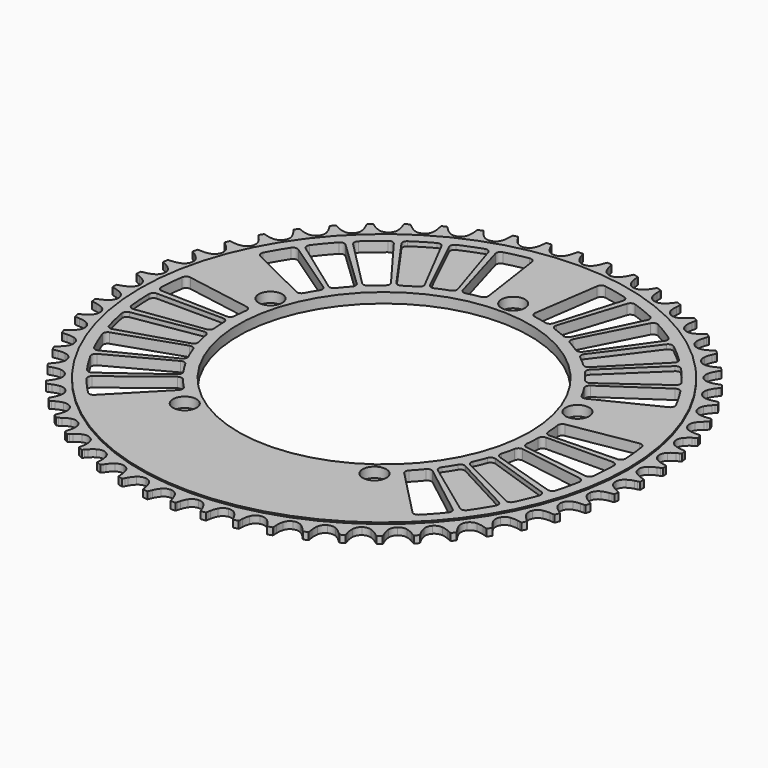
from build123d import *

# Parameters (mm, degrees)
F0_R     = 108.779476
F0_R_2   = 5.25
F0_R_3   = 64.999997
F1_DEPTH = 2.25
F2_DEPTH = 1.58
F4_DEPTH = 4.5
F5_DEPTH = 2
F6_R     = 2


with BuildPart() as f1:
    # F0 (on Top) → F1 (new body, symmetric)
    with BuildSketch(Plane.XY):
        Circle(F0_R)
        with Locations((-42.320538, -58.249224)):
            Circle(F0_R_2, mode=Mode.SUBTRACT)
        with Locations((42.320538, -58.249224)):
            Circle(F0_R_2, mode=Mode.SUBTRACT)
        with Locations((-68.476069, 22.249224)):
            Circle(F0_R_2, mode=Mode.SUBTRACT)
        Circle(F0_R_3, mode=Mode.SUBTRACT)
        with Locations((68.476069, 22.249224)):
            Circle(F0_R_2, mode=Mode.SUBTRACT)
        with Locations((0, 72)):
            Circle(F0_R_2, mode=Mode.SUBTRACT)
    extrude(amount=F1_DEPTH, both=True)

    # F0 (on Top) → F2 (join, symmetric)
    with BuildSketch(Plane.XY):
        with BuildLine():
            ThreePointArc((0, 111.279476), (-1.821214, 111.716269), (-3.246186, 112.931614))
            ThreePointArc((-3.246186, 112.931614), (-4.065486, 114.236452), (-4.682881, 115.648074))
            Line((-4.682881, 115.648074), (-5.068905, 116.766943))
            ThreePointArc((-5.068905, 116.766943), (-5.237208, 117.202485), (-5.436846, 117.624584))
            ThreePointArc((-5.436846, 117.624584), (-6.486593, 117.571367), (-7.535823, 117.508781))
            ThreePointArc((-7.535823, 117.508781), (-7.687816, 117.067281), (-7.807183, 116.615868))
            Line((-7.807183, 116.615868), (-8.06778, 115.461324))
            ThreePointArc((-8.06778, 115.461324), (-8.526138, 113.990351), (-9.196922, 112.603302))
            ThreePointArc((-9.196922, 112.603302), (-10.479548, 111.238575), (-12.241657, 110.604085))
            ThreePointArc((-12.241657, 110.604085), (-14.099868, 110.837878), (-15.64989, 111.889088))
            ThreePointArc((-15.64989, 111.889088), (-16.60776, 113.095877), (-17.376698, 114.431013))
            Line((-17.376698, 114.431013), (-17.883464, 115.500625))
            ThreePointArc((-17.883464, 115.500625), (-18.098658, 115.91501), (-18.343519, 116.312585))
            ThreePointArc((-18.343519, 116.312585), (-19.381041, 116.14421), (-20.417018, 115.966579))
            ThreePointArc((-20.417018, 115.966579), (-20.519519, 115.511039), (-20.588503, 115.049234))
            Line((-20.588503, 115.049234), (-20.720509, 113.87303))
            ThreePointArc((-20.720509, 113.87303), (-21.014266, 112.360561), (-21.528392, 110.90814))
            ThreePointArc((-21.528392, 110.90814), (-22.653102, 109.410596), (-24.334717, 108.586111))
            ThreePointArc((-24.334717, 108.586111), (-26.20737, 108.614066), (-27.863625, 109.488381))
            ThreePointArc((-27.863625, 109.488381), (-28.948438, 110.582472), (-29.859585, 111.824915))
            Line((-29.859585, 111.824915), (-30.480942, 112.832287))
            ThreePointArc((-30.480942, 112.832287), (-30.740416, 113.220483), (-31.027527, 113.588709))
            ThreePointArc((-31.027527, 113.588709), (-32.040229, 113.307219), (-33.050378, 113.016701))
            ThreePointArc((-33.050378, 113.016701), (-33.102143, 112.55265), (-33.119907, 112.086058))
            Line((-33.119907, 112.086058), (-33.121719, 110.902472))
            ThreePointArc((-33.121719, 110.902472), (-33.247309, 109.366867), (-33.598536, 107.866702))
            ThreePointArc((-33.598536, 107.866702), (-34.551678, 106.254521), (-36.132387, 105.250047))
            ThreePointArc((-36.132387, 105.250047), (-37.996749, 105.071826), (-39.739134, 105.758632))
            ThreePointArc((-39.739134, 105.758632), (-40.937722, 106.726745), (-41.980018, 107.861414))
            Line((-41.980018, 107.861414), (-42.708422, 108.794317))
            ThreePointArc((-42.708422, 108.794317), (-43.009026, 109.151613), (-43.334903, 109.486019))
            ThreePointArc((-43.334903, 109.486019), (-44.310492, 109.094832), (-45.28255, 108.694953))
            ThreePointArc((-45.28255, 108.694953), (-45.282953, 108.228024), (-45.249279, 107.76231))
            Line((-45.249279, 107.76231), (-45.120876, 106.585707))
            ThreePointArc((-45.120876, 106.585707), (-45.076774, 105.045607), (-45.26084, 103.515909))
            ThreePointArc((-45.26084, 103.515909), (-46.030843, 101.808659), (-47.491458, 100.636391))
            ThreePointArc((-47.491458, 100.636391), (-49.324899, 100.254157), (-51.132263, 100.745118))
            ThreePointArc((-51.132263, 100.745118), (-52.430077, 101.5755), (-53.59087, 102.588621))
            Line((-53.59087, 102.588621), (-54.41748, 103.435731))
            ThreePointArc((-54.41748, 103.435731), (-54.755565, 103.75779), (-55.116251, 104.054317))
            ThreePointArc((-55.116251, 104.054317), (-56.042886, 103.558182), (-56.965054, 103.053795))
            ThreePointArc((-56.965054, 103.053795), (-56.914088, 102.589656), (-56.829387, 102.130473))
            Line((-56.829387, 102.130473), (-56.572327, 100.975137))
            ThreePointArc((-56.572327, 100.975137), (-56.359069, 99.449235), (-56.373738, 97.908573))
            ThreePointArc((-56.373738, 97.908573), (-56.951257, 96.126978), (-58.274048, 94.801146))
            ThreePointArc((-58.274048, 94.801146), (-60.054312, 94.219537), (-61.904716, 94.508694))
            ThreePointArc((-61.904716, 94.508694), (-63.286002, 95.191266), (-64.551201, 96.070541))
            Line((-64.551201, 96.070541), (-65.465984, 96.821576))
            ThreePointArc((-65.465984, 96.821576), (-65.837446, 97.104488), (-66.228563, 97.359537))
            ThreePointArc((-66.228563, 97.359537), (-67.094995, 96.764476), (-67.95608, 96.161704))
            ThreePointArc((-67.95608, 96.161704), (-67.854364, 95.705988), (-67.719662, 95.25891))
            Line((-67.719662, 95.25891), (-67.337066, 94.138865))
            ThreePointArc((-67.337066, 94.138865), (-66.957241, 92.645685), (-66.802336, 91.11276))
            ThreePointArc((-66.802336, 91.11276), (-67.180359, 89.278446), (-68.349269, 87.815143))
            ThreePointArc((-68.349269, 87.815143), (-70.054746, 87.041221), (-71.92573, 87.125062))
            ThreePointArc((-71.92573, 87.125062), (-73.373721, 87.651539), (-74.727969, 88.386295))
            Line((-74.727969, 88.386295), (-75.719819, 89.032139))
            ThreePointArc((-75.719819, 89.032139), (-76.120149, 89.272469), (-76.53695, 89.482945))
            ThreePointArc((-76.53695, 89.482945), (-77.332661, 88.79618), (-78.12221, 88.10234))
            ThreePointArc((-78.12221, 88.10234), (-77.970979, 87.66058), (-77.787913, 87.231034))
            Line((-77.787913, 87.231034), (-77.284425, 86.159875))
            ThreePointArc((-77.284425, 86.159875), (-76.742643, 84.717541), (-76.420044, 83.210961))
            ThreePointArc((-76.420044, 83.210961), (-76.593983, 81.346195), (-77.594823, 79.763183))
            ThreePointArc((-77.594823, 79.763183), (-79.204811, 78.806341), (-81.073662, 78.683851))
            ThreePointArc((-81.073662, 78.683851), (-82.570782, 79.047841), (-83.997639, 79.629159))
            Line((-83.997639, 79.629159), (-85.054518, 80.161971))
            ThreePointArc((-85.054518, 80.161971), (-85.478857, 80.356804), (-85.916282, 80.52015))
            ThreePointArc((-85.916282, 80.52015), (-86.631614, 79.750019), (-87.340043, 78.973534))
            ThreePointArc((-87.340043, 78.973534), (-87.141133, 78.551091), (-86.911924, 78.144291))
            Line((-86.911924, 78.144291), (-86.293655, 77.135021))
            ThreePointArc((-86.293655, 77.135021), (-85.596493, 75.761042), (-85.110115, 74.299094))
            ThreePointArc((-85.110115, 74.299094), (-85.077859, 72.426511), (-85.898481, 70.743006))
            ThreePointArc((-85.898481, 70.743006), (-87.393437, 69.61486), (-89.237471, 69.287524))
            ThreePointArc((-89.237471, 69.287524), (-90.765545, 69.484609), (-92.247693, 69.905433))
            Line((-92.247693, 69.905433), (-93.356771, 70.318746))
            ThreePointArc((-93.356771, 70.318746), (-93.799967, 70.465715), (-94.252707, 70.57995))
            ThreePointArc((-94.252707, 70.57995), (-94.878977, 69.735801), (-95.497686, 68.886095))
            ThreePointArc((-95.497686, 68.886095), (-95.253511, 68.488098), (-94.980942, 68.108982))
            Line((-94.980942, 68.108982), (-94.255398, 67.173852))
            ThreePointArc((-94.255398, 67.173852), (-93.411318, 65.884905), (-92.767066, 64.485336))
            ThreePointArc((-92.767066, 64.485336), (-92.529006, 62.627667), (-93.159447, 60.864105))
            ThreePointArc((-93.159447, 60.864105), (-94.521225, 59.578348), (-96.318057, 59.05014))
            ThreePointArc((-96.318057, 59.05014), (-97.858538, 59.077928), (-99.377984, 59.33315))
            Line((-99.377984, 59.33315), (-100.525798, 59.621947))
            ThreePointArc((-100.525798, 59.621947), (-100.982473, 59.719269), (-101.445032, 59.783005))
            ThreePointArc((-101.445032, 59.783005), (-101.974637, 58.875084), (-102.496117, 57.962472))
            ThreePointArc((-102.496117, 57.962472), (-102.20964, 57.593752), (-101.89702, 57.246922))
            Line((-101.89702, 57.246922), (-101.073007, 56.397284))
            ThreePointArc((-101.073007, 56.397284), (-100.092256, 55.209016), (-99.29795, 53.888814))
            ThreePointArc((-99.29795, 53.888814), (-98.856976, 52.068608), (-99.289585, 50.246396))
            ThreePointArc((-99.289585, 50.246396), (-100.501653, 48.818636), (-102.229472, 48.095967))
            ThreePointArc((-102.229472, 48.095967), (-103.763661, 47.954122), (-105.301961, 48.040643))
            Line((-105.301961, 48.040643), (-106.474579, 48.201418))
            ThreePointArc((-106.474579, 48.201418), (-106.939188, 48.247911), (-107.405951, 48.260375))
            ThreePointArc((-107.405951, 48.260375), (-107.832463, 47.299704), (-108.250383, 46.335264))
            ThreePointArc((-108.250383, 46.335264), (-107.925083, 46.000297), (-107.576206, 45.689962))
            Line((-107.576206, 45.689962), (-106.663728, 44.936129))
            ThreePointArc((-106.663728, 44.936129), (-105.558209, 43.862963), (-104.623491, 42.638155))
            ThreePointArc((-104.623491, 42.638155), (-103.984956, 40.877507), (-104.214481, 39.018764))
            ThreePointArc((-104.214481, 39.018764), (-105.262128, 37.466332), (-106.89996, 36.557975))
            ThreePointArc((-106.89996, 36.557975), (-108.409233, 36.248217), (-109.947715, 36.164987))
            Line((-109.947715, 36.164987), (-111.130903, 36.195789))
            ThreePointArc((-111.130903, 36.195789), (-111.597807, 36.190889), (-112.063108, 36.151929))
            ThreePointArc((-112.063108, 36.151929), (-112.38135, 35.150169), (-112.690637, 34.145608))
            ThreePointArc((-112.690637, 34.145608), (-112.330462, 33.84846), (-111.949563, 33.578388))
            Line((-111.949563, 33.578388), (-110.959695, 32.92951))
            ThreePointArc((-110.959695, 32.92951), (-109.742829, 31.984474), (-108.679045, 30.869926))
            ThreePointArc((-108.679045, 30.869926), (-107.850699, 29.190208), (-107.874354, 27.317496))
            ThreePointArc((-107.874354, 27.317496), (-108.744863, 25.659237), (-110.272828, 24.576219))
            ThreePointArc((-110.272828, 24.576219), (-111.738865, 24.102308), (-113.258853, 23.850338))
            Line((-113.258853, 23.850338), (-114.438248, 23.750792))
            ThreePointArc((-114.438248, 23.750792), (-114.901779, 23.694559), (-115.35997, 23.604649))
            ThreePointArc((-115.35997, 23.604649), (-115.566079, 22.573959), (-115.762978, 21.541471))
            ThreePointArc((-115.762978, 21.541471), (-115.372301, 21.285748), (-114.964003, 21.059217))
            Line((-114.964003, 21.059217), (-113.908761, 20.523172))
            ThreePointArc((-113.908761, 20.523172), (-112.595319, 19.717737), (-111.415382, 18.726978))
            ThreePointArc((-111.415382, 18.726978), (-110.407281, 17.14858), (-110.224779, 15.284632))
            ThreePointArc((-110.224779, 15.284632), (-110.907582, 13.540674), (-112.307133, 12.29614))
            ThreePointArc((-112.307133, 12.29614), (-113.712137, 11.66383), (-115.195182, 11.246177))
            Line((-115.195182, 11.246177), (-116.356468, 11.017493))
            ThreePointArc((-116.356468, 11.017493), (-116.810999, 10.910608), (-117.256519, 10.770839))
            ThreePointArc((-117.256519, 10.770839), (-117.347992, 9.723732), (-117.430114, 8.67585))
            ThreePointArc((-117.430114, 8.67585), (-117.013676, 8.464657), (-116.582937, 8.284417))
            Line((-116.582937, 8.284417), (-115.47513, 7.86771))
            ThreePointArc((-115.47513, 7.86771), (-114.081055, 7.211653), (-112.799288, 6.35671))
            ThreePointArc((-112.799288, 6.35671), (-111.623669, 4.898791), (-111.237224, 3.066233))
            ThreePointArc((-111.237224, 3.066233), (-111.724034, 1.257746), (-112.978181, -0.133197))
            ThreePointArc((-112.978181, -0.133197), (-114.305099, -0.916232), (-115.733197, -1.494496))
            Line((-115.733197, -1.494496), (-116.862277, -1.849544))
            ThreePointArc((-116.862277, -1.849544), (-117.302292, -2.005782), (-117.729732, -2.193713))
            ThreePointArc((-117.729732, -2.193713), (-117.705459, -3.244528), (-117.671808, -4.295085))
            ThreePointArc((-117.671808, -4.295085), (-117.234664, -4.459185), (-116.786711, -4.590946))
            Line((-116.786711, -4.590946), (-115.639787, -4.883256))
            ThreePointArc((-115.639787, -4.883256), (-114.182002, -5.381971), (-112.813963, -6.09072))
            ThreePointArc((-112.813963, -6.09072), (-111.485096, -7.410463), (-110.899401, -9.189386))
            ThreePointArc((-110.899401, -9.189386), (-111.184307, -11.04045), (-112.277827, -12.560918))
            ThreePointArc((-112.277827, -12.560918), (-113.510551, -13.485172), (-114.866368, -14.217029))
            Line((-114.866368, -14.217029), (-115.949537, -14.69413))
            ThreePointArc((-115.949537, -14.69413), (-116.369694, -14.897824), (-116.773866, -15.131637))
            ThreePointArc((-116.773866, -15.131637), (-116.634142, -16.173405), (-116.485125, -17.213883))
            ThreePointArc((-116.485125, -17.213883), (-116.032583, -17.328897), (-115.572853, -17.41058))
            Line((-115.572853, -17.41058), (-114.400733, -17.574945))
            ThreePointArc((-114.400733, -17.574945), (-112.896933, -17.910265), (-111.459229, -18.464217))
            ThreePointArc((-111.459229, -18.464217), (-109.993245, -19.629763), (-109.215408, -21.333459))
            ThreePointArc((-109.215408, -21.333459), (-109.294953, -23.20463), (-110.214573, -24.836165))
            ThreePointArc((-110.214573, -24.836165), (-111.338139, -25.89042), (-112.605217, -26.766986))
            Line((-112.605217, -26.766986), (-113.629327, -27.360349))
            ThreePointArc((-113.629327, -27.360349), (-114.024526, -27.609028), (-114.400523, -27.885884))
            ThreePointArc((-114.400523, -27.885884), (-114.147045, -28.905957), (-113.884471, -29.923728))
            ThreePointArc((-113.884471, -29.923728), (-113.422022, -29.988261), (-112.956097, -30.018874))
            Line((-112.956097, -30.018874), (-111.77301, -30.053298))
            ThreePointArc((-111.77301, -30.053298), (-110.241449, -30.221153), (-108.751532, -30.613583))
            ThreePointArc((-108.751532, -30.613583), (-107.166225, -31.610785), (-106.205689, -33.218572))
            ThreePointArc((-106.205689, -33.218572), (-106.078907, -35.087137), (-106.813462, -36.809936))
            ThreePointArc((-106.813462, -36.809936), (-107.814233, -37.981393), (-108.977191, -38.992028))
            Line((-108.977191, -38.992028), (-109.929811, -39.69445))
            ThreePointArc((-109.929811, -39.69445), (-110.295254, -39.985095), (-110.638513, -40.301633))
            ThreePointArc((-110.638513, -40.301633), (-110.274356, -41.287631), (-109.901413, -42.270339))
            ThreePointArc((-109.901413, -42.270339), (-109.434672, -42.283607), (-108.968207, -42.262779))
            Line((-108.968207, -42.262779), (-107.788514, -42.166845))
            ThreePointArc((-107.788514, -42.166845), (-106.247783, -42.165197), (-104.723738, -42.391342))
            ThreePointArc((-104.723738, -42.391342), (-103.038353, -43.208095), (-101.906776, -44.700457))
            ThreePointArc((-101.906776, -44.700457), (-101.575206, -46.543733), (-102.115781, -48.336883))
            ThreePointArc((-102.115781, -48.336883), (-102.981608, -49.611324), (-104.02633, -50.74376))
            Line((-104.02633, -50.74376), (-104.895896, -51.546715))
            ThreePointArc((-104.895896, -51.546715), (-105.227147, -51.875797), (-105.533501, -52.228176))
            ThreePointArc((-105.533501, -52.228176), (-105.063087, -53.168129), (-104.584301, -54.103846))
            ThreePointArc((-104.584301, -54.103846), (-104.118933, -54.065688), (-103.657591, -53.993671))
            Line((-103.657591, -53.993671), (-102.495611, -53.768543))
            ThreePointArc((-102.495611, -53.768543), (-100.964412, -53.597412), (-99.424739, -53.654527))
            ThreePointArc((-99.424739, -53.654527), (-97.659734, -54.280917), (-96.370854, -55.639738))
            ThreePointArc((-96.370854, -55.639738), (-95.83852, -57.435352), (-96.178553, -59.277087))
            ThreePointArc((-96.178553, -59.277087), (-96.898926, -60.63904), (-97.81273, -61.879531))
            Line((-97.81273, -61.879531), (-98.588686, -62.773272))
            ThreePointArc((-98.588686, -62.773272), (-98.881726, -63.136797), (-99.147455, -63.520739))
            ThreePointArc((-99.147455, -63.520739), (-98.576494, -64.403238), (-97.997677, -65.280605))
            ThreePointArc((-97.997677, -65.280605), (-97.539332, -65.191484), (-97.088712, -65.069153))
            Line((-97.088712, -65.069153), (-95.95855, -64.717564))
            ThreePointArc((-95.95855, -64.717564), (-94.455471, -64.379027), (-92.91886, -64.266419))
            ThreePointArc((-92.91886, -64.266419), (-91.095658, -64.694842), (-89.665119, -65.903629))
            ThreePointArc((-89.665119, -65.903629), (-88.938484, -67.629784), (-89.073848, -69.497746))
            ThreePointArc((-89.073848, -69.497746), (-89.640023, -70.930681), (-90.411816, -72.264169))
            Line((-90.411816, -72.264169), (-91.084744, -73.237846))
            ThreePointArc((-91.084744, -73.237846), (-91.336014, -73.631403), (-91.557894, -74.042246))
            ThreePointArc((-91.557894, -74.042246), (-90.893316, -74.856578), (-90.221495, -75.664946))
            ThreePointArc((-90.221495, -75.664946), (-89.775735, -75.525944), (-89.341308, -75.354784))
            Line((-89.341308, -75.354784), (-88.256682, -74.881002))
            ThreePointArc((-88.256682, -74.881002), (-86.799968, -74.379169), (-85.285071, -74.098204))
            ThreePointArc((-85.285071, -74.098204), (-83.425805, -74.32346), (-81.870972, -75.367539))
            ThreePointArc((-81.870972, -75.367539), (-80.958856, -77.003281), (-80.887906, -78.874798))
            ThreePointArc((-80.887906, -78.874798), (-81.29301, -80.361319), (-81.913424, -81.771617))
            Line((-81.913424, -81.771617), (-82.475156, -82.813413))
            ThreePointArc((-82.475156, -82.813413), (-82.681607, -83.232222), (-82.856944, -83.664981))
            ThreePointArc((-82.856944, -83.664981), (-82.106816, -84.401262), (-81.350145, -85.130817))
            ThreePointArc((-81.350145, -85.130817), (-80.922382, -84.943622), (-80.509421, -84.72571))
            Line((-80.509421, -84.72571), (-79.483498, -84.135486))
            ThreePointArc((-79.483498, -84.135486), (-78.090831, -83.476447), (-76.616036, -83.030537))
            ThreePointArc((-76.616036, -83.030537), (-74.743275, -83.049891), (-73.083021, -83.916589))
            ThreePointArc((-73.083021, -83.916589), (-71.996496, -85.442063), (-71.720095, -87.294416))
            ThreePointArc((-71.720095, -87.294416), (-71.959211, -88.816479), (-72.420715, -90.286469))
            Line((-72.420715, -90.286469), (-72.864431, -91.383737))
            ThreePointArc((-72.864431, -91.383737), (-73.023556, -91.822715), (-73.150222, -92.272136))
            ThreePointArc((-73.150222, -92.272136), (-72.32365, -92.921428), (-71.491315, -93.563315))
            ThreePointArc((-71.491315, -93.563315), (-71.086741, -93.330199), (-70.700258, -93.06818))
            Line((-70.700258, -93.06818), (-69.745492, -92.368678))
            ThreePointArc((-69.745492, -92.368678), (-68.433777, -91.560435), (-67.016987, -90.954992))
            ThreePointArc((-67.016987, -90.954992), (-65.153464, -90.768209), (-63.407942, -91.447005))
            ThreePointArc((-63.407942, -91.447005), (-62.160197, -92.843694), (-61.6817, -94.654398))
            ThreePointArc((-61.6817, -94.654398), (-61.751925, -96.193528), (-62.048917, -97.705365))
            Line((-62.048917, -97.705365), (-62.369231, -98.844786))
            ThreePointArc((-62.369231, -98.844786), (-62.479099, -99.298605), (-62.555557, -99.759233))
            ThreePointArc((-62.555557, -99.759233), (-61.662574, -100.313654), (-60.764678, -100.860082))
            ThreePointArc((-60.764678, -100.860082), (-60.388204, -100.583874), (-60.032891, -100.280929))
            Line((-60.032891, -100.280929), (-59.16087, -99.480641))
            ThreePointArc((-59.16087, -99.480641), (-57.94603, -98.533003), (-56.604443, -97.775376))
            ThreePointArc((-56.604443, -97.775376), (-54.772777, -97.384724), (-52.963177, -97.867379))
            ThreePointArc((-52.963177, -97.867379), (-51.569357, -99.118328), (-50.894572, -100.865404))
            ThreePointArc((-50.894572, -100.865404), (-50.795053, -102.402918), (-50.923928, -103.938251))
            Line((-50.923928, -103.938251), (-51.116953, -105.105993))
            ThreePointArc((-51.116953, -105.105993), (-51.176231, -105.569145), (-51.201551, -106.035387))
            ThreePointArc((-51.201551, -106.035387), (-50.252997, -106.488208), (-49.300439, -106.932544))
            ThreePointArc((-49.300439, -106.932544), (-48.956635, -106.616597), (-48.636805, -106.276403))
            Line((-48.636805, -106.276403), (-47.858116, -105.385043))
            ThreePointArc((-47.858116, -105.385043), (-46.754896, -104.309514), (-45.504797, -103.4089))
            ThreePointArc((-45.504797, -103.4089), (-43.727223, -102.819121), (-41.87551, -103.099775))
            ThreePointArc((-41.87551, -103.099775), (-40.352535, -104.1898), (-39.489652, -105.85204))
            ThreePointArc((-39.489652, -105.85204), (-39.221599, -107.369275), (-39.180793, -108.909467))
            Line((-39.180793, -108.909467), (-39.244184, -110.091356))
            ThreePointArc((-39.244184, -110.091356), (-39.252152, -110.558218), (-39.226028, -111.024416))
            ThreePointArc((-39.226028, -111.024416), (-38.233417, -111.370139), (-37.23776, -111.706989))
            ThreePointArc((-37.23776, -111.706989), (-36.9308, -111.355139), (-36.650335, -110.981826))
            Line((-36.650335, -110.981826), (-35.974428, -110.010213))
            ThreePointArc((-35.974428, -110.010213), (-34.996221, -108.819849), (-33.852784, -107.78718))
            ThreePointArc((-33.852784, -107.78718), (-32.15088, -107.005432), (-30.279531, -107.080679))
            ThreePointArc((-30.279531, -107.080679), (-28.645888, -107.996549), (-27.605382, -109.553777))
            ThreePointArc((-27.605382, -109.553777), (-27.172047, -111.032315), (-26.962055, -112.558669))
            Line((-26.962055, -112.558669), (-26.895045, -113.740359))
            ThreePointArc((-26.895045, -113.740359), (-26.851605, -114.205263), (-26.774354, -114.665758))
            ThreePointArc((-26.774354, -114.665758), (-25.749735, -114.900188), (-24.723065, -115.125463))
            ThreePointArc((-24.723065, -115.125463), (-24.456674, -114.74198), (-24.218979, -114.340079))
            Line((-24.218979, -114.340079), (-23.65406, -113.300008))
            ThreePointArc((-23.65406, -113.300008), (-22.81274, -112.009259), (-21.789845, -110.857069))
            ThreePointArc((-21.789845, -110.857069), (-20.184269, -109.892843), (-18.316, -109.761769))
            ThreePointArc((-18.316, -109.761769), (-16.591518, -110.492367), (-15.38602, -111.925678))
            ThreePointArc((-15.38602, -111.925678), (-14.792664, -113.347573), (-14.416035, -114.841562))
            Line((-14.416035, -114.841562), (-14.219435, -116.008708))
            ThreePointArc((-14.219435, -116.008708), (-14.125116, -116.466012), (-13.997676, -116.915214))
            ThreePointArc((-13.997676, -116.915214), (-12.953487, -117.035505), (-11.908265, -117.14647))
            ThreePointArc((-11.908265, -117.14647), (-11.685677, -116.736009), (-11.493637, -116.310399))
            Line((-11.493637, -116.310399), (-11.046564, -115.214495))
            ThreePointArc((-11.046564, -115.214495), (-10.352343, -113.839027), (-9.462407, -112.581304))
            ThreePointArc((-9.462407, -112.581304), (-7.972648, -111.446303), (-6.130137, -111.1105))
            ThreePointArc((-6.130137, -111.1105), (-4.335751, -111.646956), (-2.979893, -112.938954))
            ThreePointArc((-2.979893, -112.938954), (-2.233718, -114.286944), (-1.695023, -115.730434))
            Line((-1.695023, -115.730434), (-1.371221, -116.868869))
            ThreePointArc((-1.371221, -116.868869), (-1.227167, -117.313021), (-1.051085, -117.745477))
            ThreePointArc((-1.051085, -117.745477), (0, -117.750168), (1.051085, -117.745477))
            ThreePointArc((1.051085, -117.745477), (1.227167, -117.313021), (1.371221, -116.868869))
            Line((1.371221, -116.868869), (1.695023, -115.730434))
            ThreePointArc((1.695023, -115.730434), (2.233718, -114.286944), (2.979893, -112.938954))
            ThreePointArc((2.979893, -112.938954), (4.335751, -111.646956), (6.130137, -111.1105))
            ThreePointArc((6.130137, -111.1105), (7.972648, -111.446303), (9.462407, -112.581304))
            ThreePointArc((9.462407, -112.581304), (10.352343, -113.839027), (11.046564, -115.214495))
            Line((11.046564, -115.214495), (11.493637, -116.310399))
            ThreePointArc((11.493637, -116.310399), (11.685677, -116.736009), (11.908265, -117.14647))
            ThreePointArc((11.908265, -117.14647), (12.953487, -117.035505), (13.997676, -116.915214))
            ThreePointArc((13.997676, -116.915214), (14.125116, -116.466012), (14.219435, -116.008708))
            Line((14.219435, -116.008708), (14.416035, -114.841562))
            ThreePointArc((14.416035, -114.841562), (14.792664, -113.347573), (15.38602, -111.925678))
            ThreePointArc((15.38602, -111.925678), (16.591518, -110.492367), (18.316, -109.761769))
            ThreePointArc((18.316, -109.761769), (20.184269, -109.892843), (21.789845, -110.857069))
            ThreePointArc((21.789845, -110.857069), (22.81274, -112.009259), (23.65406, -113.300008))
            Line((23.65406, -113.300008), (24.218979, -114.340079))
            ThreePointArc((24.218979, -114.340079), (24.456674, -114.74198), (24.723065, -115.125463))
            ThreePointArc((24.723065, -115.125463), (25.749735, -114.900188), (26.774354, -114.665758))
            ThreePointArc((26.774354, -114.665758), (26.851605, -114.205263), (26.895045, -113.740359))
            Line((26.895045, -113.740359), (26.962055, -112.558669))
            ThreePointArc((26.962055, -112.558669), (27.172047, -111.032315), (27.605382, -109.553777))
            ThreePointArc((27.605382, -109.553777), (28.645888, -107.996549), (30.279531, -107.080679))
            ThreePointArc((30.279531, -107.080679), (32.15088, -107.005432), (33.852784, -107.78718))
            ThreePointArc((33.852784, -107.78718), (34.996221, -108.819849), (35.974428, -110.010213))
            Line((35.974428, -110.010213), (36.650335, -110.981826))
            ThreePointArc((36.650335, -110.981826), (36.9308, -111.355139), (37.23776, -111.706989))
            ThreePointArc((37.23776, -111.706989), (38.233417, -111.370139), (39.226028, -111.024416))
            ThreePointArc((39.226028, -111.024416), (39.252152, -110.558218), (39.244184, -110.091356))
            Line((39.244184, -110.091356), (39.180793, -108.909467))
            ThreePointArc((39.180793, -108.909467), (39.221599, -107.369275), (39.489652, -105.85204))
            ThreePointArc((39.489652, -105.85204), (40.352535, -104.1898), (41.87551, -103.099775))
            ThreePointArc((41.87551, -103.099775), (43.727223, -102.819121), (45.504797, -103.4089))
            ThreePointArc((45.504797, -103.4089), (46.754896, -104.309514), (47.858116, -105.385043))
            Line((47.858116, -105.385043), (48.636805, -106.276403))
            ThreePointArc((48.636805, -106.276403), (48.956635, -106.616597), (49.300439, -106.932544))
            ThreePointArc((49.300439, -106.932544), (50.252997, -106.488208), (51.201551, -106.035387))
            ThreePointArc((51.201551, -106.035387), (51.176231, -105.569145), (51.116953, -105.105993))
            Line((51.116953, -105.105993), (50.923928, -103.938251))
            ThreePointArc((50.923928, -103.938251), (50.795053, -102.402918), (50.894572, -100.865404))
            ThreePointArc((50.894572, -100.865404), (51.569357, -99.118328), (52.963177, -97.867379))
            ThreePointArc((52.963177, -97.867379), (54.772777, -97.384724), (56.604443, -97.775376))
            ThreePointArc((56.604443, -97.775376), (57.94603, -98.533003), (59.16087, -99.480641))
            Line((59.16087, -99.480641), (60.032891, -100.280929))
            ThreePointArc((60.032891, -100.280929), (60.388204, -100.583874), (60.764678, -100.860082))
            ThreePointArc((60.764678, -100.860082), (61.662574, -100.313654), (62.555557, -99.759233))
            ThreePointArc((62.555557, -99.759233), (62.479099, -99.298605), (62.369231, -98.844786))
            Line((62.369231, -98.844786), (62.048917, -97.705365))
            ThreePointArc((62.048917, -97.705365), (61.751925, -96.193528), (61.6817, -94.654398))
            ThreePointArc((61.6817, -94.654398), (62.160197, -92.843694), (63.407942, -91.447005))
            ThreePointArc((63.407942, -91.447005), (65.153464, -90.768209), (67.016987, -90.954992))
            ThreePointArc((67.016987, -90.954992), (68.433777, -91.560435), (69.745492, -92.368678))
            Line((69.745492, -92.368678), (70.700258, -93.06818))
            ThreePointArc((70.700258, -93.06818), (71.086741, -93.330199), (71.491315, -93.563315))
            ThreePointArc((71.491315, -93.563315), (72.32365, -92.921428), (73.150222, -92.272136))
            ThreePointArc((73.150222, -92.272136), (73.023556, -91.822715), (72.864431, -91.383737))
            Line((72.864431, -91.383737), (72.420715, -90.286469))
            ThreePointArc((72.420715, -90.286469), (71.959211, -88.816479), (71.720095, -87.294416))
            ThreePointArc((71.720095, -87.294416), (71.996496, -85.442063), (73.083021, -83.916589))
            ThreePointArc((73.083021, -83.916589), (74.743275, -83.049891), (76.616036, -83.030537))
            ThreePointArc((76.616036, -83.030537), (78.090831, -83.476447), (79.483498, -84.135486))
            Line((79.483498, -84.135486), (80.509421, -84.72571))
            ThreePointArc((80.509421, -84.72571), (80.922382, -84.943622), (81.350145, -85.130817))
            ThreePointArc((81.350145, -85.130817), (82.106816, -84.401262), (82.856944, -83.664981))
            ThreePointArc((82.856944, -83.664981), (82.681607, -83.232222), (82.475156, -82.813413))
            Line((82.475156, -82.813413), (81.913424, -81.771617))
            ThreePointArc((81.913424, -81.771617), (81.29301, -80.361319), (80.887906, -78.874798))
            ThreePointArc((80.887906, -78.874798), (80.958856, -77.003281), (81.870972, -75.367539))
            ThreePointArc((81.870972, -75.367539), (83.425805, -74.32346), (85.285071, -74.098204))
            ThreePointArc((85.285071, -74.098204), (86.799968, -74.379169), (88.256682, -74.881002))
            Line((88.256682, -74.881002), (89.341308, -75.354784))
            ThreePointArc((89.341308, -75.354784), (89.775735, -75.525944), (90.221495, -75.664946))
            ThreePointArc((90.221495, -75.664946), (90.893316, -74.856578), (91.557894, -74.042246))
            ThreePointArc((91.557894, -74.042246), (91.336014, -73.631403), (91.084744, -73.237846))
            Line((91.084744, -73.237846), (90.411816, -72.264169))
            ThreePointArc((90.411816, -72.264169), (89.640023, -70.930681), (89.073848, -69.497746))
            ThreePointArc((89.073848, -69.497746), (88.938484, -67.629784), (89.665119, -65.903629))
            ThreePointArc((89.665119, -65.903629), (91.095658, -64.694842), (92.91886, -64.266419))
            ThreePointArc((92.91886, -64.266419), (94.455471, -64.379027), (95.95855, -64.717564))
            Line((95.95855, -64.717564), (97.088712, -65.069153))
            ThreePointArc((97.088712, -65.069153), (97.539332, -65.191484), (97.997677, -65.280605))
            ThreePointArc((97.997677, -65.280605), (98.576494, -64.403238), (99.147455, -63.520739))
            ThreePointArc((99.147455, -63.520739), (98.881726, -63.136797), (98.588686, -62.773272))
            Line((98.588686, -62.773272), (97.81273, -61.879531))
            ThreePointArc((97.81273, -61.879531), (96.898926, -60.63904), (96.178553, -59.277087))
            ThreePointArc((96.178553, -59.277087), (95.83852, -57.435352), (96.370854, -55.639738))
            ThreePointArc((96.370854, -55.639738), (97.659734, -54.280917), (99.424739, -53.654527))
            ThreePointArc((99.424739, -53.654527), (100.964412, -53.597412), (102.495611, -53.768543))
            Line((102.495611, -53.768543), (103.657591, -53.993671))
            ThreePointArc((103.657591, -53.993671), (104.118933, -54.065688), (104.584301, -54.103846))
            ThreePointArc((104.584301, -54.103846), (105.063087, -53.168129), (105.533501, -52.228176))
            ThreePointArc((105.533501, -52.228176), (105.227147, -51.875797), (104.895896, -51.546715))
            Line((104.895896, -51.546715), (104.02633, -50.74376))
            ThreePointArc((104.02633, -50.74376), (102.981608, -49.611324), (102.115781, -48.336883))
            ThreePointArc((102.115781, -48.336883), (101.575206, -46.543733), (101.906776, -44.700457))
            ThreePointArc((101.906776, -44.700457), (103.038353, -43.208095), (104.723738, -42.391342))
            ThreePointArc((104.723738, -42.391342), (106.247783, -42.165197), (107.788514, -42.166845))
            Line((107.788514, -42.166845), (108.968207, -42.262779))
            ThreePointArc((108.968207, -42.262779), (109.434672, -42.283607), (109.901413, -42.270339))
            ThreePointArc((109.901413, -42.270339), (110.274356, -41.287631), (110.638513, -40.301633))
            ThreePointArc((110.638513, -40.301633), (110.295254, -39.985095), (109.929811, -39.69445))
            Line((109.929811, -39.69445), (108.977191, -38.992028))
            ThreePointArc((108.977191, -38.992028), (107.814233, -37.981393), (106.813462, -36.809936))
            ThreePointArc((106.813462, -36.809936), (106.078907, -35.087137), (106.205689, -33.218572))
            ThreePointArc((106.205689, -33.218572), (107.166225, -31.610785), (108.751532, -30.613583))
            ThreePointArc((108.751532, -30.613583), (110.241449, -30.221153), (111.77301, -30.053298))
            Line((111.77301, -30.053298), (112.956097, -30.018874))
            ThreePointArc((112.956097, -30.018874), (113.422022, -29.988261), (113.884471, -29.923728))
            ThreePointArc((113.884471, -29.923728), (114.147045, -28.905957), (114.400523, -27.885884))
            ThreePointArc((114.400523, -27.885884), (114.024526, -27.609028), (113.629327, -27.360349))
            Line((113.629327, -27.360349), (112.605217, -26.766986))
            ThreePointArc((112.605217, -26.766986), (111.338139, -25.89042), (110.214573, -24.836165))
            ThreePointArc((110.214573, -24.836165), (109.294953, -23.20463), (109.215408, -21.333459))
            ThreePointArc((109.215408, -21.333459), (109.993245, -19.629763), (111.459229, -18.464217))
            ThreePointArc((111.459229, -18.464217), (112.896933, -17.910265), (114.400733, -17.574945))
            Line((114.400733, -17.574945), (115.572853, -17.41058))
            ThreePointArc((115.572853, -17.41058), (116.032583, -17.328897), (116.485125, -17.213883))
            ThreePointArc((116.485125, -17.213883), (116.634142, -16.173405), (116.773866, -15.131637))
            ThreePointArc((116.773866, -15.131637), (116.369694, -14.897824), (115.949537, -14.69413))
            Line((115.949537, -14.69413), (114.866368, -14.217029))
            ThreePointArc((114.866368, -14.217029), (113.510551, -13.485172), (112.277827, -12.560918))
            ThreePointArc((112.277827, -12.560918), (111.184307, -11.04045), (110.899401, -9.189386))
            ThreePointArc((110.899401, -9.189386), (111.485096, -7.410463), (112.813963, -6.09072))
            ThreePointArc((112.813963, -6.09072), (114.182002, -5.381971), (115.639787, -4.883256))
            Line((115.639787, -4.883256), (116.786711, -4.590946))
            ThreePointArc((116.786711, -4.590946), (117.234664, -4.459185), (117.671808, -4.295085))
            ThreePointArc((117.671808, -4.295085), (117.705459, -3.244528), (117.729732, -2.193713))
            ThreePointArc((117.729732, -2.193713), (117.302292, -2.005782), (116.862277, -1.849544))
            Line((116.862277, -1.849544), (115.733197, -1.494496))
            ThreePointArc((115.733197, -1.494496), (114.305099, -0.916232), (112.978181, -0.133197))
            ThreePointArc((112.978181, -0.133197), (111.724034, 1.257746), (111.237224, 3.066233))
            ThreePointArc((111.237224, 3.066233), (111.623669, 4.898791), (112.799288, 6.35671))
            ThreePointArc((112.799288, 6.35671), (114.081055, 7.211653), (115.47513, 7.86771))
            Line((115.47513, 7.86771), (116.582937, 8.284417))
            ThreePointArc((116.582937, 8.284417), (117.013676, 8.464657), (117.430114, 8.67585))
            ThreePointArc((117.430114, 8.67585), (117.347992, 9.723732), (117.256519, 10.770839))
            ThreePointArc((117.256519, 10.770839), (116.810999, 10.910608), (116.356468, 11.017493))
            Line((116.356468, 11.017493), (115.195182, 11.246177))
            ThreePointArc((115.195182, 11.246177), (113.712137, 11.66383), (112.307133, 12.29614))
            ThreePointArc((112.307133, 12.29614), (110.907582, 13.540674), (110.224779, 15.284632))
            ThreePointArc((110.224779, 15.284632), (110.407281, 17.14858), (111.415382, 18.726978))
            ThreePointArc((111.415382, 18.726978), (112.595319, 19.717737), (113.908761, 20.523172))
            Line((113.908761, 20.523172), (114.964003, 21.059217))
            ThreePointArc((114.964003, 21.059217), (115.372301, 21.285748), (115.762978, 21.541471))
            ThreePointArc((115.762978, 21.541471), (115.566079, 22.573959), (115.35997, 23.604649))
            ThreePointArc((115.35997, 23.604649), (114.901779, 23.694559), (114.438248, 23.750792))
            Line((114.438248, 23.750792), (113.258853, 23.850338))
            ThreePointArc((113.258853, 23.850338), (111.738865, 24.102308), (110.272828, 24.576219))
            ThreePointArc((110.272828, 24.576219), (108.744863, 25.659237), (107.874354, 27.317496))
            ThreePointArc((107.874354, 27.317496), (107.850699, 29.190208), (108.679045, 30.869926))
            ThreePointArc((108.679045, 30.869926), (109.742829, 31.984474), (110.959695, 32.92951))
            Line((110.959695, 32.92951), (111.949563, 33.578388))
            ThreePointArc((111.949563, 33.578388), (112.330462, 33.84846), (112.690637, 34.145608))
            ThreePointArc((112.690637, 34.145608), (112.38135, 35.150169), (112.063108, 36.151929))
            ThreePointArc((112.063108, 36.151929), (111.597807, 36.190889), (111.130903, 36.195789))
            Line((111.130903, 36.195789), (109.947715, 36.164987))
            ThreePointArc((109.947715, 36.164987), (108.409233, 36.248217), (106.89996, 36.557975))
            ThreePointArc((106.89996, 36.557975), (105.262128, 37.466332), (104.214481, 39.018764))
            ThreePointArc((104.214481, 39.018764), (103.984956, 40.877507), (104.623491, 42.638155))
            ThreePointArc((104.623491, 42.638155), (105.558209, 43.862963), (106.663728, 44.936129))
            Line((106.663728, 44.936129), (107.576206, 45.689962))
            ThreePointArc((107.576206, 45.689962), (107.925083, 46.000297), (108.250383, 46.335264))
            ThreePointArc((108.250383, 46.335264), (107.832463, 47.299704), (107.405951, 48.260375))
            ThreePointArc((107.405951, 48.260375), (106.939188, 48.247911), (106.474579, 48.201418))
            Line((106.474579, 48.201418), (105.301961, 48.040643))
            ThreePointArc((105.301961, 48.040643), (103.763661, 47.954122), (102.229472, 48.095967))
            ThreePointArc((102.229472, 48.095967), (100.501653, 48.818636), (99.289585, 50.246396))
            ThreePointArc((99.289585, 50.246396), (98.856976, 52.068608), (99.29795, 53.888814))
            ThreePointArc((99.29795, 53.888814), (100.092256, 55.209016), (101.073007, 56.397284))
            Line((101.073007, 56.397284), (101.89702, 57.246922))
            ThreePointArc((101.89702, 57.246922), (102.20964, 57.593752), (102.496117, 57.962472))
            ThreePointArc((102.496117, 57.962472), (101.974637, 58.875084), (101.445032, 59.783005))
            ThreePointArc((101.445032, 59.783005), (100.982473, 59.719269), (100.525798, 59.621947))
            Line((100.525798, 59.621947), (99.377984, 59.33315))
            ThreePointArc((99.377984, 59.33315), (97.858538, 59.077928), (96.318057, 59.05014))
            ThreePointArc((96.318057, 59.05014), (94.521225, 59.578348), (93.159447, 60.864105))
            ThreePointArc((93.159447, 60.864105), (92.529006, 62.627667), (92.767066, 64.485336))
            ThreePointArc((92.767066, 64.485336), (93.411318, 65.884905), (94.255398, 67.173852))
            Line((94.255398, 67.173852), (94.980942, 68.108982))
            ThreePointArc((94.980942, 68.108982), (95.253511, 68.488098), (95.497686, 68.886095))
            ThreePointArc((95.497686, 68.886095), (94.878977, 69.735801), (94.252707, 70.57995))
            ThreePointArc((94.252707, 70.57995), (93.799967, 70.465715), (93.356771, 70.318746))
            Line((93.356771, 70.318746), (92.247693, 69.905433))
            ThreePointArc((92.247693, 69.905433), (90.765545, 69.484609), (89.237471, 69.287524))
            ThreePointArc((89.237471, 69.287524), (87.393437, 69.61486), (85.898481, 70.743006))
            ThreePointArc((85.898481, 70.743006), (85.077859, 72.426511), (85.110115, 74.299094))
            ThreePointArc((85.110115, 74.299094), (85.596493, 75.761042), (86.293655, 77.135021))
            Line((86.293655, 77.135021), (86.911924, 78.144291))
            ThreePointArc((86.911924, 78.144291), (87.141133, 78.551091), (87.340043, 78.973534))
            ThreePointArc((87.340043, 78.973534), (86.631614, 79.750019), (85.916282, 80.52015))
            ThreePointArc((85.916282, 80.52015), (85.478857, 80.356804), (85.054518, 80.161971))
            Line((85.054518, 80.161971), (83.997639, 79.629159))
            ThreePointArc((83.997639, 79.629159), (82.570782, 79.047841), (81.073662, 78.683851))
            ThreePointArc((81.073662, 78.683851), (79.204811, 78.806341), (77.594823, 79.763183))
            ThreePointArc((77.594823, 79.763183), (76.593983, 81.346195), (76.420044, 83.210961))
            ThreePointArc((76.420044, 83.210961), (76.742643, 84.717541), (77.284425, 86.159875))
            Line((77.284425, 86.159875), (77.787913, 87.231034))
            ThreePointArc((77.787913, 87.231034), (77.970979, 87.66058), (78.12221, 88.10234))
            ThreePointArc((78.12221, 88.10234), (77.332661, 88.79618), (76.53695, 89.482945))
            ThreePointArc((76.53695, 89.482945), (76.120149, 89.272469), (75.719819, 89.032139))
            Line((75.719819, 89.032139), (74.727969, 88.386295))
            ThreePointArc((74.727969, 88.386295), (73.373721, 87.651539), (71.92573, 87.125062))
            ThreePointArc((71.92573, 87.125062), (70.054746, 87.041221), (68.349269, 87.815143))
            ThreePointArc((68.349269, 87.815143), (67.180359, 89.278446), (66.802336, 91.11276))
            ThreePointArc((66.802336, 91.11276), (66.957241, 92.645685), (67.337066, 94.138865))
            Line((67.337066, 94.138865), (67.719662, 95.25891))
            ThreePointArc((67.719662, 95.25891), (67.854364, 95.705988), (67.95608, 96.161704))
            ThreePointArc((67.95608, 96.161704), (67.094995, 96.764476), (66.228563, 97.359537))
            ThreePointArc((66.228563, 97.359537), (65.837446, 97.104488), (65.465984, 96.821576))
            Line((65.465984, 96.821576), (64.551201, 96.070541))
            ThreePointArc((64.551201, 96.070541), (63.286002, 95.191266), (61.904716, 94.508694))
            ThreePointArc((61.904716, 94.508694), (60.054312, 94.219537), (58.274048, 94.801146))
            ThreePointArc((58.274048, 94.801146), (56.951257, 96.126978), (56.373738, 97.908573))
            ThreePointArc((56.373738, 97.908573), (56.359069, 99.449235), (56.572327, 100.975137))
            Line((56.572327, 100.975137), (56.829387, 102.130473))
            ThreePointArc((56.829387, 102.130473), (56.914088, 102.589656), (56.965054, 103.053795))
            ThreePointArc((56.965054, 103.053795), (56.042886, 103.558182), (55.116251, 104.054317))
            ThreePointArc((55.116251, 104.054317), (54.755565, 103.75779), (54.41748, 103.435731))
            Line((54.41748, 103.435731), (53.59087, 102.588621))
            ThreePointArc((53.59087, 102.588621), (52.430077, 101.5755), (51.132263, 100.745118))
            ThreePointArc((51.132263, 100.745118), (49.324899, 100.254157), (47.491458, 100.636391))
            ThreePointArc((47.491458, 100.636391), (46.030843, 101.808659), (45.26084, 103.515909))
            ThreePointArc((45.26084, 103.515909), (45.076774, 105.045607), (45.120876, 106.585707))
            Line((45.120876, 106.585707), (45.249279, 107.76231))
            ThreePointArc((45.249279, 107.76231), (45.282953, 108.228024), (45.28255, 108.694953))
            ThreePointArc((45.28255, 108.694953), (44.310492, 109.094832), (43.334903, 109.486019))
            ThreePointArc((43.334903, 109.486019), (43.009026, 109.151613), (42.708422, 108.794317))
            Line((42.708422, 108.794317), (41.980018, 107.861414))
            ThreePointArc((41.980018, 107.861414), (40.937722, 106.726745), (39.739134, 105.758632))
            ThreePointArc((39.739134, 105.758632), (37.996749, 105.071826), (36.132387, 105.250047))
            ThreePointArc((36.132387, 105.250047), (34.551678, 106.254521), (33.598536, 107.866702))
            ThreePointArc((33.598536, 107.866702), (33.247309, 109.366867), (33.121719, 110.902472))
            Line((33.121719, 110.902472), (33.119907, 112.086058))
            ThreePointArc((33.119907, 112.086058), (33.102143, 112.55265), (33.050378, 113.016701))
            ThreePointArc((33.050378, 113.016701), (32.040229, 113.307219), (31.027527, 113.588709))
            ThreePointArc((31.027527, 113.588709), (30.740416, 113.220483), (30.480942, 112.832287))
            Line((30.480942, 112.832287), (29.859585, 111.824915))
            ThreePointArc((29.859585, 111.824915), (28.948438, 110.582472), (27.863625, 109.488381))
            ThreePointArc((27.863625, 109.488381), (26.20737, 108.614066), (24.334717, 108.586111))
            ThreePointArc((24.334717, 108.586111), (22.653102, 109.410596), (21.528392, 110.90814))
            ThreePointArc((21.528392, 110.90814), (21.014266, 112.360561), (20.720509, 113.87303))
            Line((20.720509, 113.87303), (20.588503, 115.049234))
            ThreePointArc((20.588503, 115.049234), (20.519519, 115.511039), (20.417018, 115.966579))
            ThreePointArc((20.417018, 115.966579), (19.381041, 116.14421), (18.343519, 116.312585))
            ThreePointArc((18.343519, 116.312585), (18.098658, 115.91501), (17.883464, 115.500625))
            Line((17.883464, 115.500625), (17.376698, 114.431013))
            ThreePointArc((17.376698, 114.431013), (16.60776, 113.095877), (15.64989, 111.889088))
            ThreePointArc((15.64989, 111.889088), (14.099868, 110.837878), (12.241657, 110.604085))
            ThreePointArc((12.241657, 110.604085), (10.479548, 111.238575), (9.196922, 112.603302))
            ThreePointArc((9.196922, 112.603302), (8.526138, 113.990351), (8.06778, 115.461324))
            Line((8.06778, 115.461324), (7.807183, 116.615868))
            ThreePointArc((7.807183, 116.615868), (7.687816, 117.067281), (7.535823, 117.508781))
            ThreePointArc((7.535823, 117.508781), (6.486593, 117.571367), (5.436846, 117.624584))
            ThreePointArc((5.436846, 117.624584), (5.237208, 117.202485), (5.068905, 116.766943))
            Line((5.068905, 116.766943), (4.682881, 115.648074))
            ThreePointArc((4.682881, 115.648074), (4.065486, 114.236452), (3.246186, 112.931614))
            ThreePointArc((3.246186, 112.931614), (1.821214, 111.716269), (0, 111.279476))
        make_face()
        Circle(F0_R, mode=Mode.SUBTRACT)
    extrude(amount=F2_DEPTH, both=True)

    # F3 (on face) → F4 (cut)
    with BuildSketch(Plane.XY.offset(2.25)):
        with BuildLine():
            ThreePointArc((-48.900119, -50.199446), (-52.282737, -46.666063), (-55.410639, -42.905327))
            Line((-55.410639, -42.905327), (-81.992786, -63.488302))
            ThreePointArc((-81.992786, -63.488302), (-77.364336, -69.053175), (-72.358974, -74.281628))
            Line((-72.358974, -74.281628), (-48.900119, -50.199446))
        make_face()
        with BuildLine():
            ThreePointArc((-56.514781, -41.440143), (-59.267832, -37.396925), (-61.732137, -33.171513))
            Line((-61.732137, -33.171513), (-91.346897, -49.084885))
            ThreePointArc((-91.346897, -49.084885), (-87.700392, -55.337354), (-83.626619, -61.320225))
            Line((-83.626619, -61.320225), (-56.514781, -41.440143))
        make_face()
        with BuildLine():
            ThreePointArc((-62.579311, -31.544187), (-64.627283, -27.102035), (-66.360396, -22.527845))
            Line((-66.360396, -22.527845), (-98.195472, -33.335128))
            ThreePointArc((-98.195472, -33.335128), (-95.630931, -40.103696), (-92.600487, -46.676881))
            Line((-92.600487, -46.676881), (-62.579311, -31.544187))
        make_face()
        with BuildLine():
            Line((-69.067521, 11.869436), (-102.201285, 17.563562))
            ThreePointArc((-102.201285, 17.563562), (-103.177714, 10.38945), (-103.651175, 3.164691))
            Line((-103.651175, 3.164691), (-70.047355, 2.138695))
            ThreePointArc((-70.047355, 2.138695), (-69.727391, 7.021179), (-69.067521, 11.869436))
        make_face()
        with BuildLine():
            ThreePointArc((-62.853478, 30.994294), (-60.538317, 35.303231), (-57.92822, 39.440174))
            Line((-57.92822, 39.440174), (-85.718127, 58.360809))
            ThreePointArc((-85.718127, 58.360809), (-89.580366, 52.239251), (-93.006179, 45.863188))
            Line((-93.006179, 45.863188), (-62.853478, 30.994294))
        make_face()
        with BuildLine():
            ThreePointArc((-56.875946, 40.943042), (-53.881357, 44.810773), (-50.624263, 48.460189))
            Line((-50.624263, 48.460189), (-74.910243, 71.707998))
            ThreePointArc((-74.910243, 71.707998), (-79.729862, 66.307846), (-84.161046, 60.58465))
            Line((-84.161046, 60.58465), (-56.875946, 40.943042))
        make_face()
        with BuildLine():
            ThreePointArc((-49.338376, 49.768772), (-45.746496, 53.089209), (-41.931744, 56.151))
            Line((-41.931744, 56.151), (-62.047661, 83.088322))
            ThreePointArc((-62.047661, 83.088322), (-67.692464, 78.557697), (-73.007476, 73.644347))
            Line((-73.007476, 73.644347), (-49.338376, 49.768772))
        make_face()
        with BuildLine():
            Line((-10.054533, 69.354973), (-14.877994, 102.626637))
            ThreePointArc((-14.877994, 102.626637), (-22.002714, 101.338354), (-29.020174, 99.556069))
            Line((-29.020174, 99.556069), (-19.611803, 67.279887))
            ThreePointArc((-19.611803, 67.279887), (-14.869411, 68.484353), (-10.054533, 69.354973))
        make_face()
        with BuildLine():
            ThreePointArc((10.054533, 69.354973), (14.867999, 68.484659), (19.60903, 67.280695))
            Line((19.60903, 67.280695), (29.01607, 99.557265))
            ThreePointArc((29.01607, 99.557265), (22.000625, 101.338808), (14.877994, 102.626637))
            Line((14.877994, 102.626637), (10.054533, 69.354973))
        make_face()
        with BuildLine():
            ThreePointArc((21.363513, 66.744335), (25.967322, 65.091506), (30.444621, 63.121557))
            Line((30.444621, 63.121557), (45.04982, 93.402864))
            ThreePointArc((45.04982, 93.402864), (38.424627, 96.317856), (31.612232, 98.763597))
            Line((31.612232, 98.763597), (21.363513, 66.744335))
        make_face()
        with BuildLine():
            ThreePointArc((32.086518, 62.30298), (36.354393, 59.912971), (40.445153, 57.231071))
            Line((40.445153, 57.231071), (59.847908, 84.686535))
            ThreePointArc((59.847908, 84.686535), (53.794688, 88.655022), (47.479385, 92.191591))
            Line((47.479385, 92.191591), (32.086518, 62.30298))
        make_face()
        with BuildLine():
            Line((62.853478, 30.994294), (93.006179, 45.863188))
            ThreePointArc((93.006179, 45.863188), (89.57929, 52.241098), (85.715721, 58.364343))
            Line((85.715721, 58.364343), (57.926594, 39.442562))
            ThreePointArc((57.926594, 39.442562), (60.53759, 35.304479), (62.853478, 30.994294))
        make_face()
        with BuildLine():
            Line((102.201285, 17.563562), (69.067521, 11.869436))
            ThreePointArc((69.067521, 11.869436), (69.727246, 7.022616), (70.047267, 2.141583))
            Line((70.047267, 2.141583), (103.651045, 3.168964))
            ThreePointArc((103.651045, 3.168964), (103.1775, 10.391576), (102.201285, 17.563562))
        make_face()
        with BuildLine():
            Line((103.69848, 0.45461), (70.079324, 0.307225))
            ThreePointArc((70.079324, 0.307225), (69.930045, -4.58201), (69.440074, -9.448921))
            Line((69.440074, -9.448921), (102.752563, -13.981853))
            ThreePointArc((102.752563, -13.981853), (103.477588, -6.780137), (103.69848, 0.45461))
        make_face()
        with BuildLine():
            Line((102.35135, -16.66681), (69.168935, -11.263413))
            ThreePointArc((69.168935, -11.263413), (68.214747, -16.060957), (66.928223, -20.780253))
            Line((66.928223, -20.780253), (99.035702, -30.749165))
            ThreePointArc((99.035702, -30.749165), (100.939409, -23.76588), (102.35135, -16.66681))
        make_face()
        with BuildLine():
            Line((48.900119, -50.199446), (72.358974, -74.281628))
            ThreePointArc((72.358974, -74.281628), (77.365759, -69.05158), (81.995403, -63.484921))
            Line((81.995403, -63.484921), (55.412407, -42.903043))
            ThreePointArc((55.412407, -42.903043), (52.283699, -46.664985), (48.900119, -50.199446))
        make_face()
    extrude(amount=-F4_DEPTH, mode=Mode.SUBTRACT)

    # F3 (on face) → F5 (cut)
    with BuildSketch(Plane.XY.offset(2.25)):
        with BuildLine():
            ThreePointArc((-66.927366, -20.783012), (-68.205007, -16.102265), (-69.155709, -11.344332))
            Line((-69.155709, -11.344332), (-102.33178, -16.786549))
            ThreePointArc((-102.33178, -16.786549), (-100.924998, -23.827005), (-99.034434, -30.753247))
            Line((-99.034434, -30.753247), (-66.927366, -20.783012))
        make_face()
        with BuildLine():
            Line((-102.736134, -14.102062), (-69.428971, -9.530159))
            ThreePointArc((-69.428971, -9.530159), (-69.927257, -4.624359), (-70.079336, 0.304336))
            Line((-70.079336, 0.304336), (-103.698499, 0.450335))
            ThreePointArc((-103.698499, 0.450335), (-103.473463, -6.842803), (-102.736134, -14.102062))
        make_face()
        with BuildLine():
            ThreePointArc((-40.447513, 57.229404), (-36.39067, 59.890943), (-32.15939, 62.265397))
            Line((-32.15939, 62.265397), (-47.587215, 92.135977))
            ThreePointArc((-47.587215, 92.135977), (-53.848368, 88.622428), (-59.8514, 84.684068))
            Line((-59.8514, 84.684068), (-40.447513, 57.229404))
        make_face()
        with BuildLine():
            Line((-45.15907, 93.350093), (-30.518452, 63.085894))
            ThreePointArc((-30.518452, 63.085894), (-26.006737, 65.075768), (-21.366265, 66.743454))
            Line((-21.366265, 66.743454), (-31.616304, 98.762294))
            ThreePointArc((-31.616304, 98.762294), (-38.482951, 96.294569), (-45.15907, 93.350093))
        make_face()
        with BuildLine():
            ThreePointArc((41.929429, 56.152729), (45.714336, 53.116904), (49.280113, 49.826463))
            Line((49.280113, 49.826463), (72.921263, 73.729714))
            ThreePointArc((72.921263, 73.729714), (67.644876, 78.598678), (62.044235, 83.09088))
            Line((62.044235, 83.09088), (41.929429, 56.152729))
        make_face()
        with BuildLine():
            Line((74.826294, 71.795593), (50.567531, 48.519386))
            ThreePointArc((50.567531, 48.519386), (53.854209, 44.843395), (56.874258, 40.945387))
            Line((56.874258, 40.945387), (84.158548, 60.588119))
            ThreePointArc((84.158548, 60.588119), (79.689691, 66.356119), (74.826294, 71.795593))
        make_face()
        with BuildLine():
            Line((98.196846, -33.33108), (66.361325, -22.525109))
            ThreePointArc((66.361325, -22.525109), (64.643684, -27.062892), (62.616175, -31.470949))
            Line((62.616175, -31.470949), (92.655035, -46.568508))
            ThreePointArc((92.655035, -46.568508), (95.655201, -40.045773), (98.196846, -33.33108))
        make_face()
        with BuildLine():
            ThreePointArc((61.770905, -33.099265), (59.290469, -37.361026), (56.51649, -41.437813))
            Line((56.51649, -41.437813), (83.629147, -61.316777))
            ThreePointArc((83.629147, -61.316777), (87.733888, -55.284232), (91.404263, -48.977976))
            Line((91.404263, -48.977976), (61.770905, -33.099265))
        make_face()
    extrude(amount=-F5_DEPTH, mode=Mode.SUBTRACT)

    # F6
    f6_edges = [f1.edges().sort_by_distance(p)[0] for p in [
        (-69.067521, 11.869436, 0),
        (-70.047355, 2.138695, 0),
        (-70.079336, 0.304336, 1.25),
        (-69.155709, -11.344332, 1.25),
        (-66.360396, -22.527845, 0),
        (-61.732137, -33.171513, 0),
        (-55.410639, -42.905327, 0),
        (29.01607, 99.557265, 0),
        (45.04982, 93.402864, 0),
        (59.847908, 84.686535, 0),
        (72.921263, 73.729714, 1.25),
        (-69.428971, -9.530159, 1.25),
        (-66.927366, -20.783012, 1.25),
        (-62.579311, -31.544187, 0),
        (-56.514781, -41.440143, 0),
        (-48.900119, -50.199446, 0),
        (-102.201285, 17.563562, 0),
        (-103.698499, 0.450335, 1.25),
        (-102.33178, -16.786549, 1.25),
        (-98.195472, -33.335128, 0),
        (-91.346897, -49.084885, 0),
        (-81.992786, -63.488302, 0),
        (-103.651175, 3.164691, 0),
        (-102.736134, -14.102062, 1.25),
        (-99.034434, -30.753247, 1.25),
        (-92.600487, -46.676881, 0),
        (-83.626619, -61.320225, 0),
        (-72.358974, -74.281628, 0),
        (74.826294, 71.795593, 1.25),
        (85.715721, 58.364343, 0),
        (84.158548, 60.588119, 1.25),
        (93.006179, 45.863188, 0),
        (14.877994, 102.626637, 0),
        (31.612232, 98.763597, 0),
        (47.479385, 92.191591, 0),
        (62.044235, 83.09088, 1.25),
        (10.054533, 69.354973, 0),
        (21.363513, 66.744335, 0),
        (32.086518, 62.30298, 0),
        (41.929429, 56.152729, 1.25),
        (50.567531, 48.519386, 1.25),
        (57.926594, 39.442562, 0),
        (62.853478, 30.994294, 0),
        (56.874258, 40.945387, 1.25),
        (49.280113, 49.826463, 1.25),
        (40.445153, 57.231071, 0),
        (19.60903, 67.280695, 0),
        (30.444621, 63.121557, 0),
        (-31.616304, 98.762294, 1.25),
        (-14.877994, 102.626637, 0),
        (-47.587215, 92.135977, 1.25),
        (-62.047661, 83.088322, 0),
        (-74.910243, 71.707998, 0),
        (-85.718127, 58.360809, 0),
        (-93.006179, 45.863188, 0),
        (-73.007476, 73.644347, 0),
        (-84.161046, 60.58465, 0),
        (-59.8514, 84.684068, 1.25),
        (-45.15907, 93.350093, 1.25),
        (-29.020174, 99.556069, 0),
        (-62.853478, 30.994294, 0),
        (-56.875946, 40.943042, 0),
        (-49.338376, 49.768772, 0),
        (-40.447513, 57.229404, 1.25),
        (-30.518452, 63.085894, 1.25),
        (-19.611803, 67.279887, 0),
        (-57.92822, 39.440174, 0),
        (-50.624263, 48.460189, 0),
        (-41.931744, 56.151, 0),
        (-32.15939, 62.265397, 1.25),
        (-21.366265, 66.743454, 1.25),
        (-10.054533, 69.354973, 0),
        (48.900119, -50.199446, 0),
        (55.412407, -42.903043, 0),
        (61.770905, -33.099265, 1.25),
        (66.361325, -22.525109, 1.25),
        (69.168935, -11.263413, 0),
        (70.079324, 0.307225, 0),
        (69.067521, 11.869436, 0),
        (56.51649, -41.437813, 1.25),
        (62.616175, -31.470949, 1.25),
        (70.047267, 2.141583, 0),
        (69.440074, -9.448921, 0),
        (66.928223, -20.780253, 0),
        (81.995403, -63.484921, 0),
        (91.404263, -48.977976, 1.25),
        (98.196846, -33.33108, 1.25),
        (103.69848, 0.45461, 0),
        (102.201285, 17.563562, 0),
        (102.35135, -16.66681, 0),
        (103.651045, 3.168964, 0),
        (102.752563, -13.981853, 0),
        (99.035702, -30.749165, 0),
        (92.655035, -46.568508, 1.25),
        (83.629147, -61.316777, 1.25),
        (72.358974, -74.281628, 0),
    ]]
    fillet(f6_edges, radius=F6_R)


solid = f1.part
